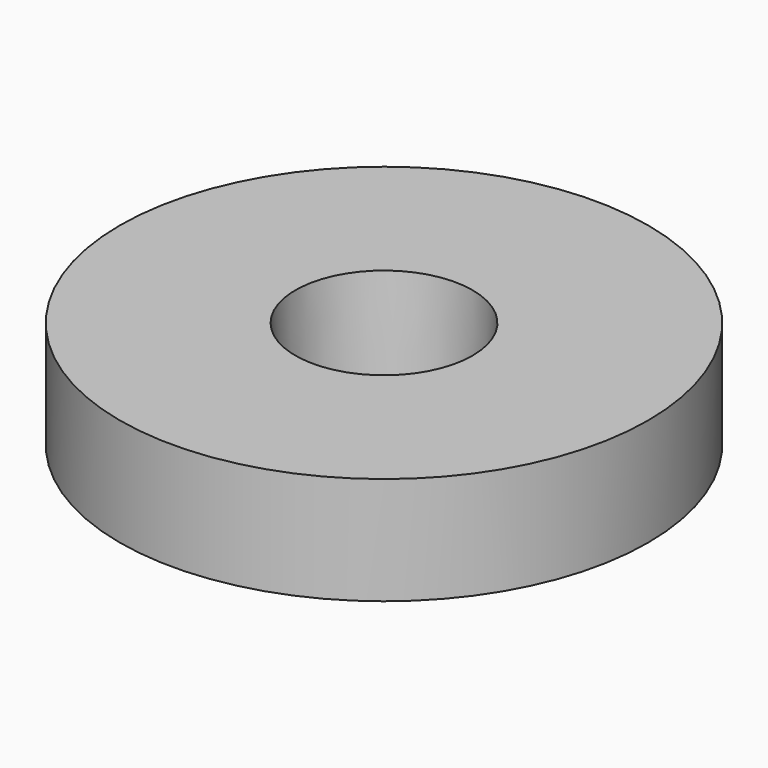
from build123d import *


with BuildPart() as f1:
    # F0 (on Front) → F1 (revolve)
    with BuildSketch(Plane.XZ):
        with BuildLine():
            Line((6.228764, 0), (0, 0))
            Line((0, 0), (0, -1))
            Line((0, -1), (6.228764, -1))
            ThreePointArc((6.228764, -1), (8.286747, -0.182821), (9.223569, 1.823529))
            Line((9.223569, 1.823529), (10, 15))
            Line((10, 15), (26, 15))
            Line((26, 15), (26, 5))
            Line((26, 5), (27, 5))
            Line((27, 5), (27, 16))
            Line((27, 16), (9.057191, 16))
            Line((9.057191, 16), (8.225301, 1.882353))
            ThreePointArc((8.225301, 1.882353), (7.600753, 0.544786), (6.228764, 0))
        make_face()
    revolve(axis=Axis((0, 0, -0.5), (0, 0, 1)))


solid = f1.part
